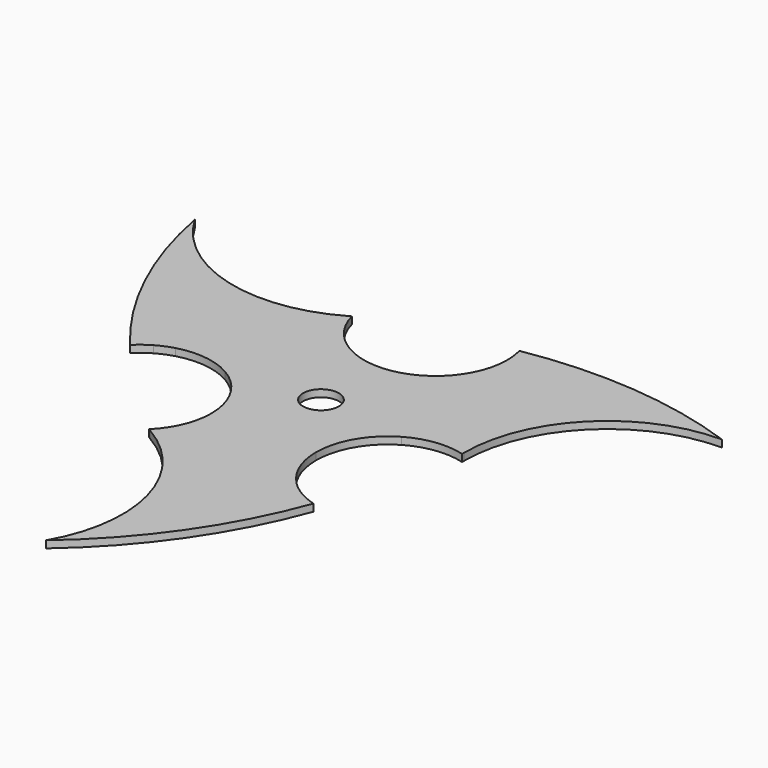
from build123d import *

# Parameters (mm, degrees)
F0_R     = 2.5
F1_DEPTH = 1


with BuildPart() as f1:
    # F0 (on Top) → F1 (new body)
    with BuildSketch(Plane.XY):
        with BuildLine():
            Line((10, 20), (40, 20))
            ThreePointArc((40, 20), (25, 23.2227612206), (9.6730747363, 22.536064894))
            ThreePointArc((9.6730747363, 22.536064894), (9.9179319256, 21.2785250559), (10, 20))
        make_face()
        with BuildLine():
            ThreePointArc((14.6802673314, -19.6451609013), (13.4687772907, -19.2284435286), (12.3205080757, -18.6602540378))
            Line((12.3205080757, -18.6602540378), (-2.6794919243, -44.6410161514))
            ThreePointArc((-2.6794919243, -44.6410161514), (7.611501163, -33.2620157049), (14.6802673314, -19.6451609013))
        make_face()
        with BuildLine():
            Line((-22.3205080757, -1.3397459622), (-37.3205080757, 24.6410161514))
            ThreePointArc((-37.3205080757, 24.6410161514), (-32.611501163, 10.0392544843), (-24.3533420677, -2.8909039927))
            ThreePointArc((-24.3533420677, -2.8909039927), (-23.3867092163, -2.0500815274), (-22.3205080757, -1.3397459622))
        make_face()
        with BuildLine():
            ThreePointArc((9.6824583655, 17.5), (17.2285978436, 10.1575300317), (20, 0))
            ThreePointArc((20, 0), (25.8578643763, 14.1421356237), (40, 20))
            Line((40, 20), (10, 20))
            ThreePointArc((10, 20), (9.9202969627, 18.7399570752), (9.6824583655, 17.5))
        make_face()
        with BuildLine():
            ThreePointArc((-19.996673749, -0.3647450844), (-17.4109779689, 9.8416383883), (-10, 17.3205080757))
            ThreePointArc((-10, 17.3205080757), (-25.1763809021, 15.3224996256), (-37.3205080757, 24.6410161514))
            Line((-37.3205080757, 24.6410161514), (-22.3205080757, -1.3397459622))
            ThreePointArc((-22.3205080757, -1.3397459622), (-21.1894273743, -0.7787493548), (-19.996673749, -0.3647450844))
        make_face()
        with BuildLine():
            ThreePointArc((12.3205080757, -18.6602540378), (11.2691304116, -17.9612077203), (10.3142153835, -17.1352549156))
            ThreePointArc((10.3142153835, -17.1352549156), (0.1823801254, -19.99916842), (-10, -17.3205080757))
            ThreePointArc((-10, -17.3205080757), (-0.6814834742, -29.4646352493), (-2.6794919243, -44.6410161514))
            Line((-2.6794919243, -44.6410161514), (12.3205080757, -18.6602540378))
        make_face()
        with BuildLine():
            ThreePointArc((19.996673749, -0.3647450844), (19.99916842, -0.1823801254), (20, 0))
            ThreePointArc((20, 0), (17.2285978436, 10.1575300317), (9.6824583655, 17.5))
            ThreePointArc((9.6824583655, 17.5), (7.9612077203, 13.9486223359), (5, 11.3397459622))
            Line((5, 11.3397459622), (12.3205080757, -1.3397459622))
            ThreePointArc((12.3205080757, -1.3397459622), (16.0604651509, -0.0797030373), (19.996673749, -0.3647450844))
        make_face()
        with BuildLine():
            ThreePointArc((-5, 11.3397459622), (-7.9612077203, 13.9486223359), (-9.6824583655, 17.5))
            ThreePointArc((-9.6824583655, 17.5), (-9.8416383883, 17.4109779689), (-10, 17.3205080757))
            ThreePointArc((-10, 17.3205080757), (-17.4109779689, 9.8416383883), (-19.996673749, -0.3647450844))
            ThreePointArc((-19.996673749, -0.3647450844), (-16.0604651509, -0.0797030373), (-12.3205080757, -1.3397459622))
            Line((-12.3205080757, -1.3397459622), (-5, 11.3397459622))
        make_face()
        with BuildLine():
            ThreePointArc((-10, -17.3205080757), (0.1823801254, -19.99916842), (10.3142153835, -17.1352549156))
            ThreePointArc((10.3142153835, -17.1352549156), (8.0992574305, -13.8689192986), (7.3205080757, -10))
            Line((7.3205080757, -10), (-7.3205080757, -10))
            ThreePointArc((-7.3205080757, -10), (-8.0992574305, -13.8689192986), (-10.3142153835, -17.1352549156))
            ThreePointArc((-10.3142153835, -17.1352549156), (-10.1575300317, -17.2285978436), (-10, -17.3205080757))
        make_face()
        with BuildLine():
            Line((12.3205080757, -1.3397459622), (5, 11.3397459622))
            ThreePointArc((5, 11.3397459622), (0, 10), (-5, 11.3397459622))
            Line((-5, 11.3397459622), (-12.3205080757, -1.3397459622))
            ThreePointArc((-12.3205080757, -1.3397459622), (-8.6602540378, -5), (-7.3205080757, -10))
            Line((-7.3205080757, -10), (7.3205080757, -10))
            ThreePointArc((7.3205080757, -10), (8.6602540378, -5), (12.3205080757, -1.3397459622))
        make_face()
        Circle(F0_R, mode=Mode.SUBTRACT)
    extrude(amount=F1_DEPTH)


solid = f1.part
